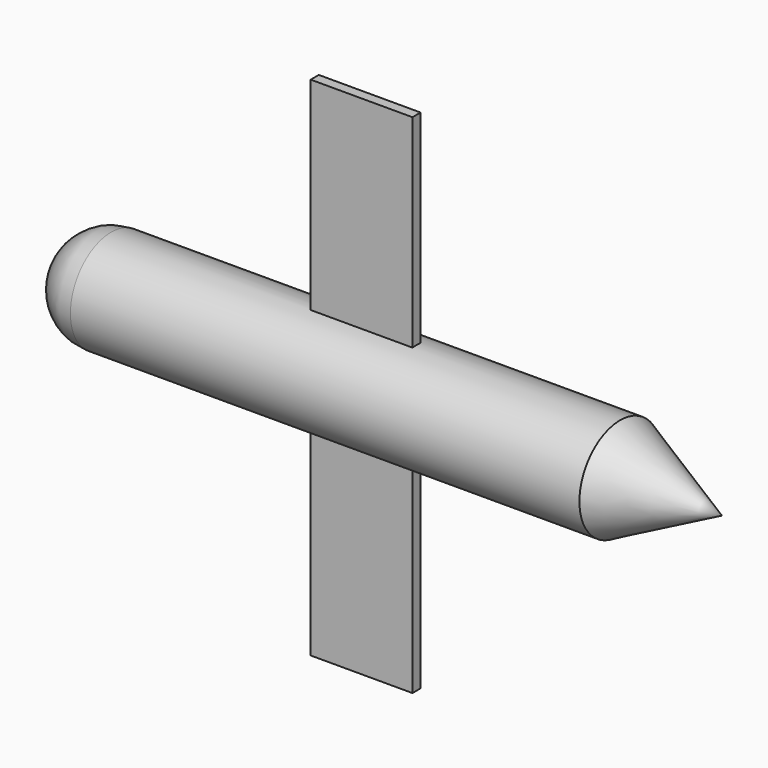
from build123d import *

# Parameters (mm, degrees)
SKETCH004_W  = 200
SKETCH004_H  = 20
PAD_DEPTH    = 400
SKETCH005_W  = 200
SKETCH005_H  = 20
PAD001_DEPTH = 400


with BuildPart() as part:
    # Sketch → Revolution (revolve)
    with BuildSketch(Plane.XY):
        with BuildLine():
            Line((-500, 0), (500, 0))
            Line((500, 0), (700, 0))
            Line((500, 100), (700, 0))
            Line((-500, 100), (500, 100))
            ThreePointArc((-500, 100), (-570.710678, 70.710678), (-600, 0))
            Line((-500, 0), (-600, 0))
        make_face()
    revolve(axis=Axis((0, 0, 0), (1, 0, 0)))

    # Sketch004 → Pad (new body)
    with BuildSketch(Plane.XY.offset(98)):
        Rectangle(SKETCH004_W, SKETCH004_H)
    extrude(amount=PAD_DEPTH)

    # Sketch005 → Pad001 (join)
    with BuildSketch(Plane.XY.offset(-98)):
        Rectangle(SKETCH005_W, SKETCH005_H)
    extrude(amount=-PAD001_DEPTH)


solid = part.part
